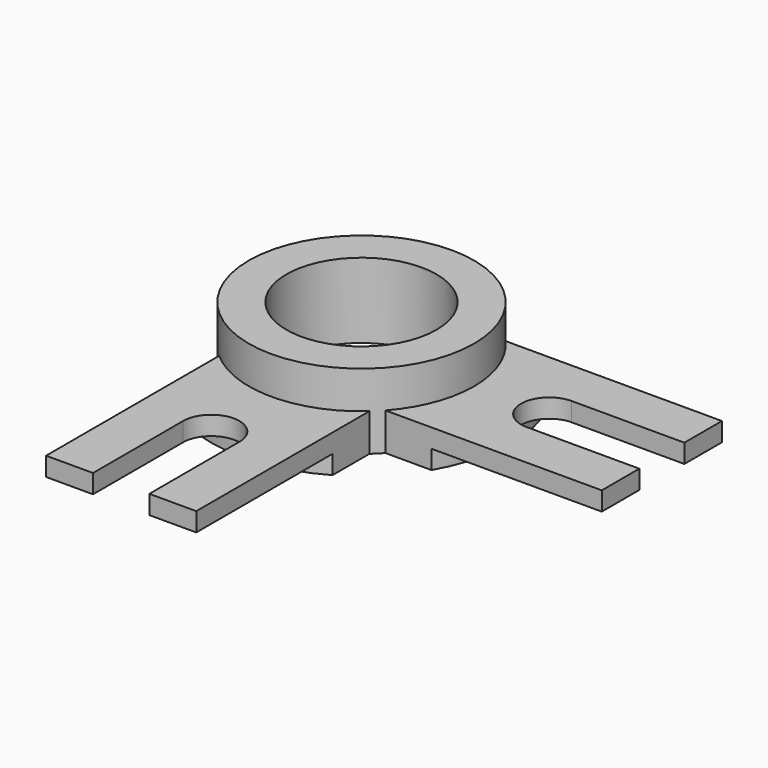
from build123d import *

# Parameters (mm, degrees)
F0_R      = 30
F1_DEPTH  = 20
F3_DEPTH  = 10
F5_DEPTH  = 25
F7_DEPTH  = 10
F9_DEPTH  = 5
F10_R     = 20
F11_DEPTH = 20


with BuildPart() as f1:
    # F0 (on Top) → F1 (new body)
    with BuildSketch(Plane.XY):
        Circle(F0_R)
    extrude(amount=F1_DEPTH)

    # F2 (on Top) → F3 (join)
    with BuildSketch(Plane.XY):
        with BuildLine():
            ThreePointArc((22.36068, 20), (30, 0), (22.36068, -20))
            Line((22.36068, -20), (80, -20))
            Line((80, -20), (80, 20))
            Line((80, 20), (22.36068, 20))
        make_face()
        with BuildLine():
            Line((20, -80), (20, -22.36068))
            ThreePointArc((20, -22.36068), (0, -30), (-20, -22.36068))
            Line((-20, -22.36068), (-20, -80))
            Line((-20, -80), (20, -80))
        make_face()
    extrude(amount=F3_DEPTH)

    # F4 (on face) → F5 (cut)
    with BuildSketch(Plane.XY.offset(10)):
        with BuildLine():
            Line((7.5, -80), (7.5, -50))
            ThreePointArc((7.5, -50), (0, -42.5), (-7.5, -50))
            Line((-7.5, -50), (-7.5, -80))
            Line((-7.5, -80), (7.5, -80))
        make_face()
    extrude(amount=-F5_DEPTH, mode=Mode.SUBTRACT)

    # F6 (on face) → F7 (cut)
    with BuildSketch(Plane.XY.offset(10)):
        with BuildLine():
            Line((80, 7.5), (50, 7.5))
            ThreePointArc((50, 7.5), (42.5, 0), (50, -7.5))
            Line((50, -7.5), (80, -7.5))
            Line((80, -7.5), (80, 7.5))
        make_face()
    extrude(amount=-F7_DEPTH, mode=Mode.SUBTRACT)

    # F8 (on Top) → F9 (cut)
    with BuildSketch(Plane.XY):
        with BuildLine():
            ThreePointArc((20, -34.641016), (0, -40), (-20, -34.641016))
            Line((-20, -34.641016), (-20, -80))
            Line((-20, -80), (20, -80))
            Line((20, -80), (20, -34.641016))
        make_face()
        with BuildLine():
            ThreePointArc((34.641016, 20), (40, 0), (34.641016, -20))
            Line((34.641016, -20), (80, -20))
            Line((80, -20), (80, 20))
            Line((80, 20), (34.641016, 20))
        make_face()
    extrude(amount=F9_DEPTH, mode=Mode.SUBTRACT)

    # F10 (on face) → F11 (cut)
    with BuildSketch(Plane.XY.offset(20)):
        Circle(F10_R)
    extrude(amount=-F11_DEPTH, mode=Mode.SUBTRACT)


solid = f1.part
